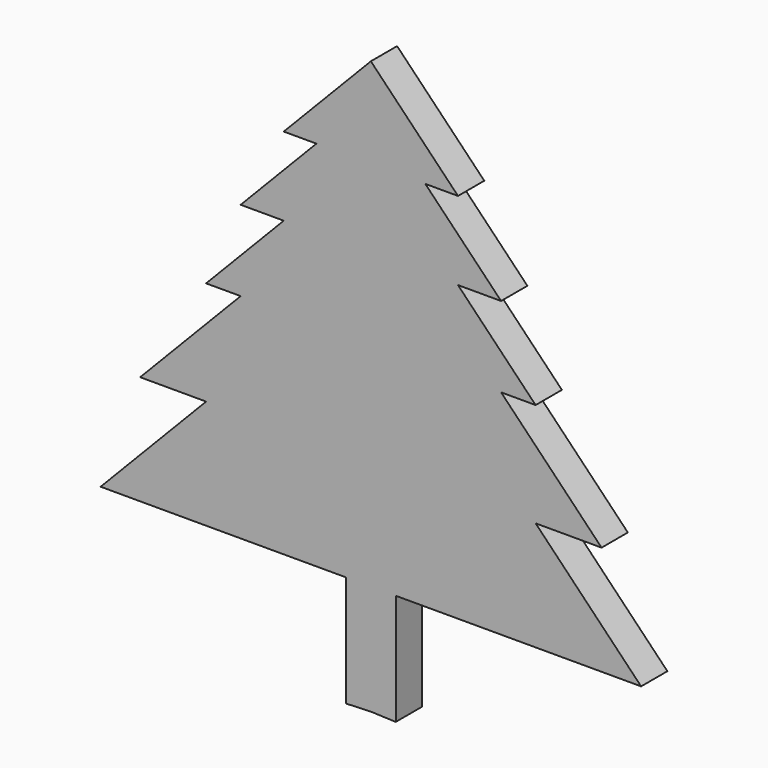
from build123d import *

# Parameters (mm, degrees)
F1_DEPTH = 6.35


with BuildPart() as f1:
    # F0 (on Front) → F1 (new body)
    with BuildSketch(Plane.XZ):
        Polygon((16.844211, 50.833423), (0, 68.279214), (-16.844211, 50.833423), (-10.527632, 50.833423), (-25.174322, 35.663635), (-16.844211, 35.663635), (-31.850775, 20.121122), (-25.174322, 20.121122), (-44.60161, 0), (-31.850775, 0), (-52.245557, -21.123168), (-4.812632, -21.123168), (-4.812632, -42.596416), (0, -42.411316), (4.812632, -42.596416), (4.812632, -21.123168), (52.245557, -21.123168), (31.850775, 0), (44.60161, 0), (25.174322, 20.121122), (31.850775, 20.121122), (16.844211, 35.663635), (25.174322, 35.663635), (10.527632, 50.833423), align=None)
    extrude(amount=F1_DEPTH)


solid = f1.part
